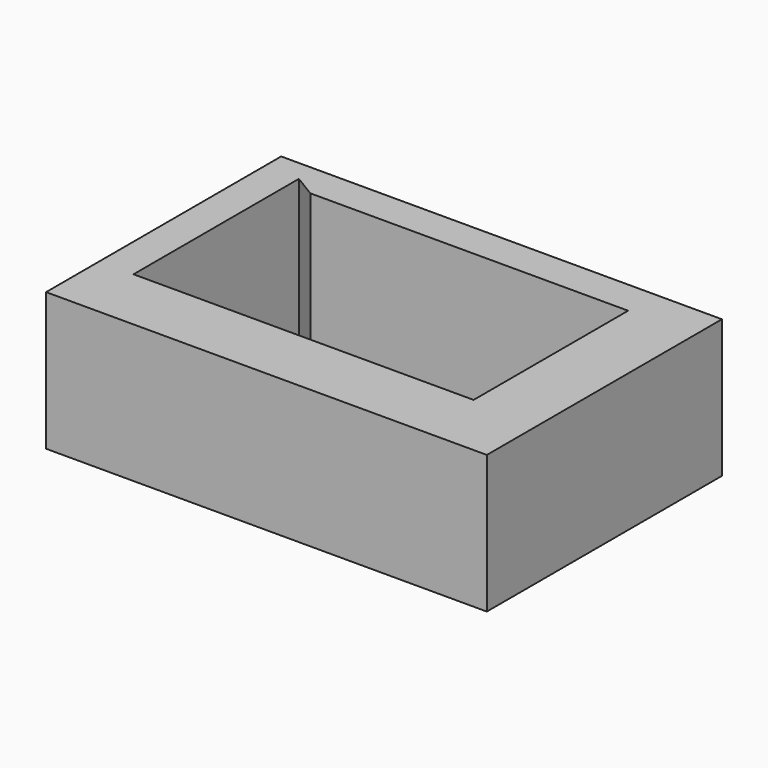
from build123d import *

# Parameters (mm, degrees)
F0_W     = 6.35
F0_H     = 12.1919997036
F0_H_2   = 35.5785874814
F0_W_2   = 12.1919997036
F0_H_3   = 6.35
F1_DEPTH = 25.4


with BuildPart() as f1:
    # F0 (on Top) → F1 (new body)
    with BuildSketch(Plane.XY):
        with Locations((-33.7727085769, -23.6963424832)):
            Rectangle(F0_W, F0_H)
        Polygon((-30.5977085769, -17.6003426313), (-30.5977085769, -29.792342335), (44.2331731319, -29.792342335), (44.2331731319, 17.97824485), (32.0411734283, 17.97824485), (32.0411734283, -17.6003426313), align=None)
        with Locations((-33.7727085769, 0.1889511093)):
            Rectangle(F0_W, F0_H_2)
        Polygon((-36.9477085769, 24.32824485), (-36.9477085769, 17.97824485), (-30.5977085769, 17.97824485), (-30.5977085769, 20.4689776353), align=None)
        with Locations((38.1371732801, 21.15324485)):
            Rectangle(F0_W_2, F0_H_3)
        Polygon((-30.5977085769, 24.32824485), (-36.9477085769, 24.32824485), (-30.5977085769, 20.4689776353), align=None)
        Polygon((-26.4994815545, 17.97824485), (32.0411734283, 17.97824485), (32.0411734283, 24.32824485), (-30.5977085769, 24.32824485), (-30.5977085769, 20.4689776353), align=None)
    extrude(amount=F1_DEPTH)


solid = f1.part
